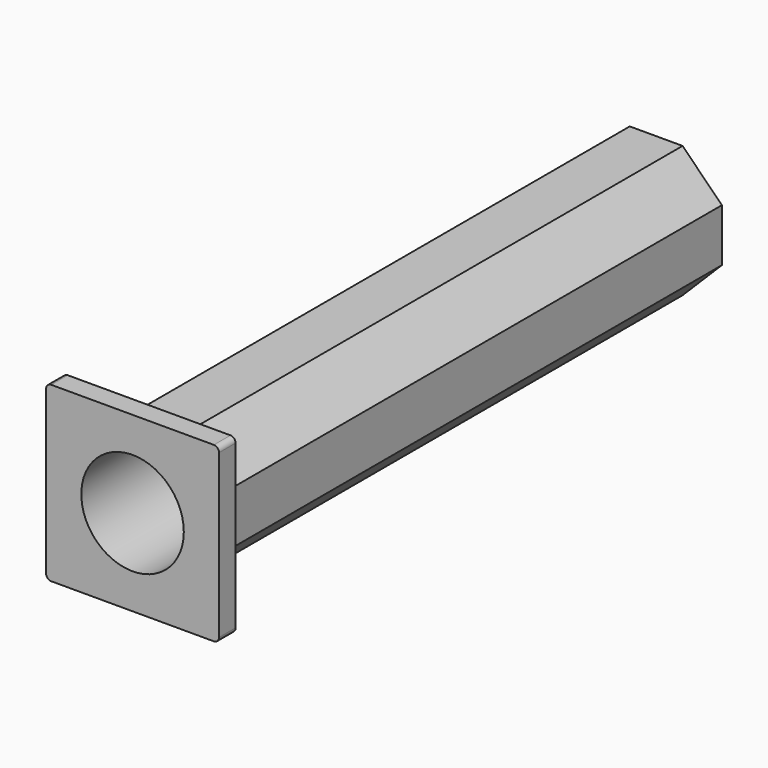
from build123d import *

# Parameters (mm, degrees)
F0_W     = 16.7
F0_H     = 16.7
F0_W_2   = 12.7
F0_H_2   = 12.7
F0_R     = 4.95
F1_DEPTH = 2
F2_DEPTH = 61.2
F3_R     = 0.5
F4_SIZE  = 3.8


with BuildPart() as f1:
    # F0 (on Front) → F1 (new body)
    with BuildSketch(Plane.XZ):
        with Locations((-2.257177, -4.186354)):
            Rectangle(F0_W, F0_H)
        with Locations((-2.257177, -4.186354)):
            Rectangle(F0_W_2, F0_H_2, mode=Mode.SUBTRACT)
        with Locations((-2.257177, -4.186354)):
            Rectangle(F0_W_2, F0_H_2)
        with Locations((-2.257177, -4.186354)):
            Circle(F0_R, mode=Mode.SUBTRACT)
    extrude(amount=F1_DEPTH)

    # F0 (on Front) → F2 (join)
    with BuildSketch(Plane.XZ):
        with Locations((-2.257177, -4.186354)):
            Rectangle(F0_W_2, F0_H_2)
        with Locations((-2.257177, -4.186354)):
            Circle(F0_R, mode=Mode.SUBTRACT)
    extrude(amount=-F2_DEPTH)

    # F3
    f3_edges = [f1.edges().sort_by_distance(p)[0] for p in [
        (-10.607177, -1, 4.163646),
        (6.092823, -1, 4.163646),
        (6.092823, -1, -12.536354),
        (-10.607177, -1, -12.536354),
    ]]
    fillet(f3_edges, radius=F3_R)

    # F4
    f4_edges = [f1.edges().sort_by_distance(p)[0] for p in [
        (-8.607177, 30.6, -10.536354),
        (-8.607177, 30.6, 2.163646),
        (4.092823, 30.6, -10.536354),
        (4.092823, 30.6, 2.163646),
    ]]
    chamfer(f4_edges, length=F4_SIZE)


solid = f1.part
